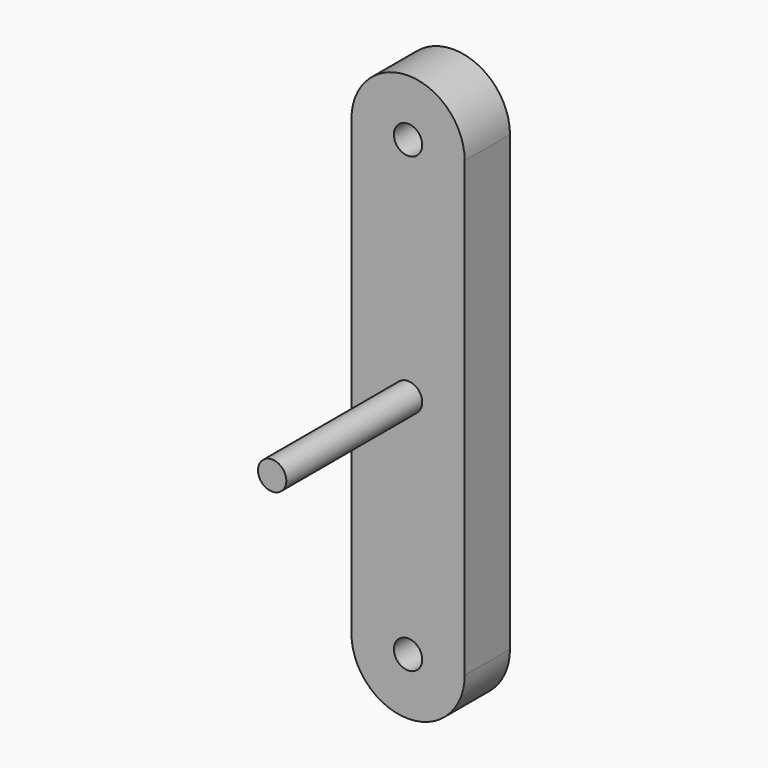
from build123d import *

# Parameters (mm, degrees)
F1_DEPTH = 6.35
F2_R     = 1.5875
F3_DEPTH = 6.35
F4_R     = 1.5875
F5_DEPTH = 19.05


with BuildPart() as f1:
    # F0 (on Front) → F1 (new body)
    with BuildSketch(Plane.XZ):
        with BuildLine():
            Line((0, 50.8), (0, 0))
            ThreePointArc((0, 0), (6.35, -6.35), (12.7, 0))
            Line((12.7, 0), (12.7, 50.8))
            ThreePointArc((12.7, 50.8), (6.35, 57.15), (0, 50.8))
        make_face()
    extrude(amount=F1_DEPTH)

    # F2 (on face) → F3 (cut, through all)
    with BuildSketch(Plane.XZ.offset(6.35)):
        with Locations((6.35, 50.8)):
            Circle(F2_R)
        with Locations((6.35, 0)):
            Circle(F2_R)
        with Locations((6.35, 25.4)):
            Circle(F2_R)
    extrude(amount=-F3_DEPTH, mode=Mode.SUBTRACT)


with BuildPart() as f5:
    # F4 (on face) → F5 (new body)
    with BuildSketch(Plane.XZ.offset(6.35)):
        with Locations((6.35, 25.4)):
            Circle(F4_R)
    extrude(amount=F5_DEPTH)


solid = Compound([f1.part, f5.part])
